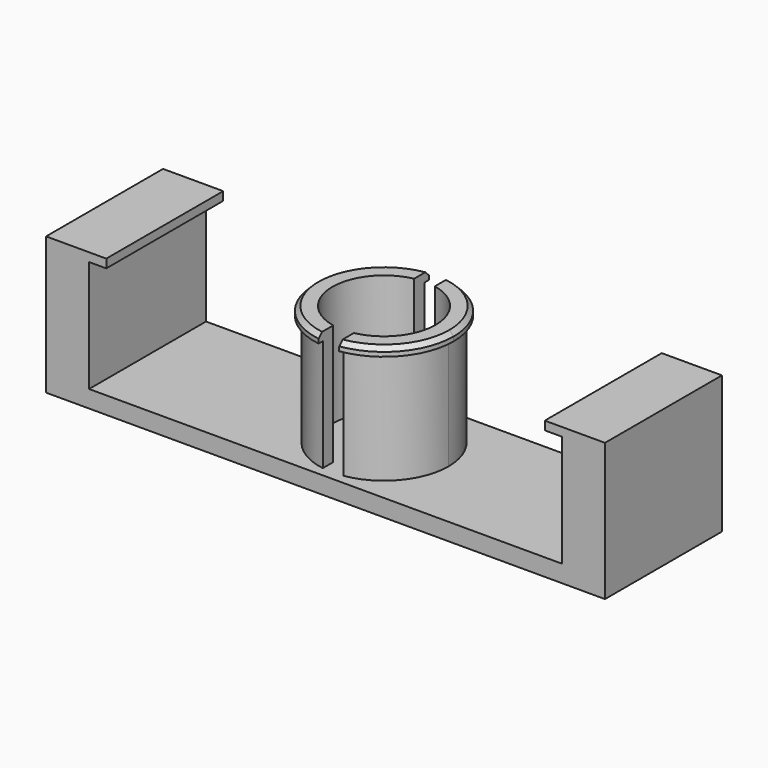
from build123d import *

# Parameters (mm, degrees)
F1_DEPTH = 1
F2_W     = 2.5
F2_H     = 8.5
F3_DEPTH = 8
F5_W     = 1
F5_H     = 8.5
F6_DEPTH = 0.5
F9_DEPTH = 9
F10_SIZE = 0.25


with BuildPart() as f1:
    # F0 (on Top) → F1 (new body)
    with BuildSketch(Plane.XY):
        with BuildLine():
            Line((0, 8.5), (0, 0))
            Line((0, 0), (13.75, 0))
            Line((13.75, 0), (13.75, 0.5))
            ThreePointArc((13.75, 0.5), (10, 4.25), (13.75, 8))
            Line((13.75, 8), (13.75, 8.5))
            Line((13.75, 8.5), (0, 8.5))
        make_face()
        with BuildLine():
            Line((13.75, 0.5), (13.75, 0))
            Line((13.75, 0), (27.5, 0))
            Line((27.5, 0), (27.5, 8.5))
            Line((27.5, 8.5), (13.75, 8.5))
            Line((13.75, 8.5), (13.75, 8))
            ThreePointArc((13.75, 8), (16.4016504294, 6.9016504294), (17.5, 4.25))
            ThreePointArc((17.5, 4.25), (16.4016504294, 1.5983495706), (13.75, 0.5))
        make_face()
        with BuildLine():
            ThreePointArc((13.75, 8), (10, 4.25), (13.75, 0.5))
            Line((13.75, 0.5), (13.75, 8))
        make_face()
        with BuildLine():
            Line((13.75, 8), (13.75, 0.5))
            ThreePointArc((13.75, 0.5), (16.4016504294, 1.5983495706), (17.5, 4.25))
            ThreePointArc((17.5, 4.25), (16.4016504294, 6.9016504294), (13.75, 8))
        make_face()
    extrude(amount=F1_DEPTH)

    # F2 (on Top) → F3 (join)
    with BuildSketch(Plane.XY):
        with Locations((-1.25, 4.25)):
            Rectangle(F2_W, F2_H)
        with BuildLine():
            ThreePointArc((13.75, 8), (10, 4.25), (13.75, 0.5))
            Line((13.75, 0.5), (13.75, 8))
        make_face()
        with BuildLine():
            Line((13.75, 8), (13.75, 0.5))
            ThreePointArc((13.75, 0.5), (16.4016504294, 1.5983495706), (17.5, 4.25))
            ThreePointArc((17.5, 4.25), (16.4016504294, 6.9016504294), (13.75, 8))
        make_face()
        with Locations((28.75, 4.25)):
            Rectangle(F2_W, F2_H)
    extrude(amount=F3_DEPTH)

    # F5 (on offset) → F6 (join)
    with BuildSketch(Plane.XY.offset(8)):
        with Locations((27, 4.25)):
            Rectangle(F5_W, F5_H)
        with Locations((0.5, 4.25)):
            Rectangle(F5_W, F5_H)
        with BuildLine():
            ThreePointArc((13.75, 8.3), (9.7, 4.25), (13.75, 0.2))
            Line((13.75, 0.2), (13.75, 8.3))
        make_face()
        with BuildLine():
            Line((13.75, 8.3), (13.75, 0.2))
            ThreePointArc((13.75, 0.2), (16.6137824638, 1.3862175362), (17.8, 4.25))
            ThreePointArc((17.8, 4.25), (16.6137824638, 7.1137824638), (13.75, 8.3))
        make_face()
    extrude(amount=-F6_DEPTH)

    # F8 (on offset) → F9 (cut)
    with BuildSketch(Plane.XY.offset(10)):
        with BuildLine():
            Line((13.75, 1.25), (13.75, 0))
            Line((13.75, 0), (14.35, 0))
            Line((14.35, 0), (14.35, 1.3106123087))
            ThreePointArc((14.35, 1.3106123087), (14.051526886, 1.265191541), (13.75, 1.25))
        make_face()
        with BuildLine():
            Line((13.75, 8.5), (13.75, 7.25))
            ThreePointArc((13.75, 7.25), (14.051526886, 7.234808459), (14.35, 7.1893876913))
            Line((14.35, 7.1893876913), (14.35, 8.5))
            Line((14.35, 8.5), (13.75, 8.5))
        make_face()
        with BuildLine():
            Line((13.75, 4.25), (13.75, 1.25))
            ThreePointArc((13.75, 1.25), (14.051526886, 1.265191541), (14.35, 1.3106123087))
            Line((14.35, 1.3106123087), (14.35, 4.25))
            Line((14.35, 4.25), (13.75, 4.25))
        make_face()
        with BuildLine():
            ThreePointArc((13.15, 7.1893876913), (10.75, 4.25), (13.15, 1.3106123087))
            Line((13.15, 1.3106123087), (13.15, 4.25))
            Line((13.15, 4.25), (13.15, 7.1893876913))
        make_face()
        with BuildLine():
            Line((13.15, 8.5), (13.15, 7.1893876913))
            ThreePointArc((13.15, 7.1893876913), (13.448473114, 7.234808459), (13.75, 7.25))
            Line((13.75, 7.25), (13.75, 8.5))
            Line((13.75, 8.5), (13.15, 8.5))
        make_face()
        with BuildLine():
            Line((13.75, 7.25), (13.75, 4.25))
            Line((13.75, 4.25), (14.35, 4.25))
            Line((14.35, 4.25), (14.35, 7.1893876913))
            ThreePointArc((14.35, 7.1893876913), (14.051526886, 7.234808459), (13.75, 7.25))
        make_face()
        with BuildLine():
            Line((13.15, 1.3106123087), (13.15, 0))
            Line((13.15, 0), (13.75, 0))
            Line((13.75, 0), (13.75, 1.25))
            ThreePointArc((13.75, 1.25), (13.448473114, 1.265191541), (13.15, 1.3106123087))
        make_face()
        with BuildLine():
            Line((14.35, 4.25), (14.35, 1.3106123087))
            ThreePointArc((14.35, 1.3106123087), (16.0737900077, 2.3526334039), (16.75, 4.25))
            ThreePointArc((16.75, 4.25), (16.0737900077, 6.1473665961), (14.35, 7.1893876913))
            Line((14.35, 7.1893876913), (14.35, 4.25))
        make_face()
        with BuildLine():
            Line((13.15, 4.25), (13.15, 1.3106123087))
            ThreePointArc((13.15, 1.3106123087), (13.448473114, 1.265191541), (13.75, 1.25))
            Line((13.75, 1.25), (13.75, 4.25))
            Line((13.75, 4.25), (13.75, 7.25))
            ThreePointArc((13.75, 7.25), (13.448473114, 7.234808459), (13.15, 7.1893876913))
            Line((13.15, 7.1893876913), (13.15, 4.25))
        make_face()
    extrude(amount=-F9_DEPTH, mode=Mode.SUBTRACT)

    # F10
    f10_edges = [f1.edges().sort_by_distance(p)[0] for p in [
        (9.7, 4.25, 8),
        (17.8, 4.25, 8),
    ]]
    chamfer(f10_edges, length=F10_SIZE)


solid = f1.part
